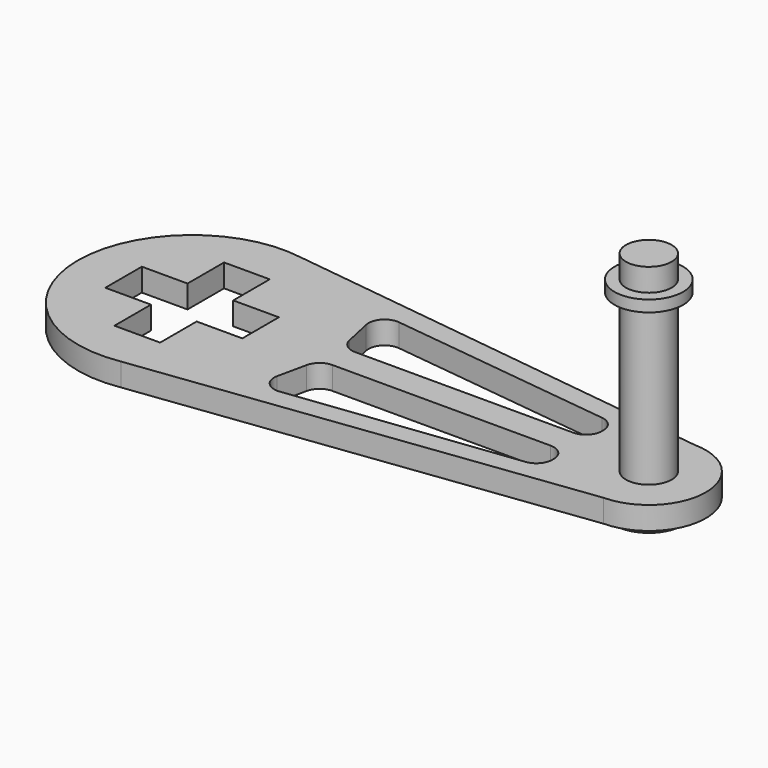
from build123d import *

# Parameters (mm, degrees)
F0_R     = 10
F1_DEPTH = 10
F2_R     = 10
F3_DEPTH = 100
F5_R     = 15
F5_R_2   = 10
F6_DEPTH = 5
F8_R     = 15
F8_R_2   = 10
F9_DEPTH = 5


with BuildPart() as f1:
    # F0 (on Top) → F1 (new body)
    with BuildSketch(Plane.XY):
        with BuildLine():
            ThreePointArc((8.2239713528, -49.3190256918), (38.1523168866, -32.3171891751), (50, 0))
            ThreePointArc((50, 0), (38.1523168866, 32.3171891751), (8.2239713528, 49.3190256918))
            ThreePointArc((8.2239713528, 49.3190256918), (-50, 0), (8.2239713528, -49.3190256918))
        make_face()
        Polygon((-10, 30), (0, 30), (10, 30), (10, 10), (30, 10), (30, 0), (30, -10), (10, -10), (10, -30), (0, -30), (-10, -30), (-10, -10), (-30, -10), (-30, 0), (-30, 10), (-10, 10), align=None, mode=Mode.SUBTRACT)
        with BuildLine():
            ThreePointArc((8.2239713528, 49.3190256918), (38.1523168866, 32.3171891751), (50, 0))
            ThreePointArc((50, 0), (38.1523168866, -32.3171891751), (8.2239713528, -49.3190256918))
            Line((8.2239713528, -49.3190256918), (200.2583432018, -24.9986651402))
            ThreePointArc((200.2583432018, -24.9986651402), (175, 0), (200.2583432018, 24.9986651402))
            Line((200.2583432018, 24.9986651402), (8.2239713528, 49.3190256918))
        make_face()
        with BuildLine():
            ThreePointArc((59.525263062, -11.6714409544), (61.973089813, -7.7092140579), (66.3651927926, -6.1598499306))
            Line((66.3651927926, -6.1598499306), (161.9411855936, -6.1598499306))
            ThreePointArc((161.9411855936, -6.1598499306), (166.8909330619, -8.2101024622), (168.9411855936, -13.1598499306))
            Line((168.9411855936, -13.1598499306), (168.9411855936, -13.984257154))
            ThreePointArc((168.9411855936, -13.984257154), (167.1788181219, -18.6283077027), (162.7791268797, -20.9339229302))
            Line((162.7791268797, -20.9339229302), (64.4436745019, -32.7905125979))
            ThreePointArc((64.4436745019, -32.7905125979), (58.428258667, -30.5518719008), (56.7658034852, -24.3524378455))
            Line((56.7658034852, -24.3524378455), (59.525263062, -11.6714409544))
        make_face(mode=Mode.SUBTRACT)
        with BuildLine():
            Line((59.525263062, 11.6714409544), (56.7658034852, 24.3524378455))
            ThreePointArc((56.7658034852, 24.3524378455), (58.428258667, 30.5518719008), (64.4436745019, 32.7905125979))
            Line((64.4436745019, 32.7905125979), (162.7791268797, 20.9339229302))
            ThreePointArc((162.7791268797, 20.9339229302), (167.1788181219, 18.6283077027), (168.9411855936, 13.984257154))
            Line((168.9411855936, 13.984257154), (168.9411855936, 13.1598499306))
            ThreePointArc((168.9411855936, 13.1598499306), (166.8909330619, 8.2101024622), (161.9411855936, 6.1598499306))
            Line((161.9411855936, 6.1598499306), (66.3651927926, 6.1598499306))
            ThreePointArc((66.3651927926, 6.1598499306), (61.973089813, 7.7092140579), (59.525263062, 11.6714409544))
        make_face(mode=Mode.SUBTRACT)
        with BuildLine():
            ThreePointArc((225, 0), (217.7687728902, 17.5860942218), (200.2583432018, 24.9986651402))
            ThreePointArc((200.2583432018, 24.9986651402), (175, 0), (200.2583432018, -24.9986651402))
            ThreePointArc((200.2583432018, -24.9986651402), (217.7687728902, -17.5860942218), (225, 0))
        make_face()
        with Locations((200, 0)):
            Circle(F0_R, mode=Mode.SUBTRACT)
    extrude(amount=F1_DEPTH)


with BuildPart() as f3:
    # F2 (on face) → F3 (new body)
    with BuildSketch(Plane.XY.offset(10)):
        with Locations((200, 0)):
            Circle(F2_R)
    extrude(amount=F3_DEPTH)


with BuildPart() as f3_1:
    # F4: moved
    add(f3.part.moved(Location((0, 0, -16))))

    # F5 (on face) → F6 (join)
    with BuildSketch(Plane(origin=(0, 0, -6), x_dir=(1, 0, 0), z_dir=(0, 0, -1))):
        with Locations((200, 0)):
            Circle(F5_R)
        with Locations((200, 0)):
            Circle(F5_R_2, mode=Mode.SUBTRACT)
    extrude(amount=-F6_DEPTH)

    # F8 (on offset) → F9 (join)
    with BuildSketch(Plane.XY.offset(84)):
        with Locations((200, 0)):
            Circle(F8_R)
        with Locations((200, 0)):
            Circle(F8_R_2, mode=Mode.SUBTRACT)
    extrude(amount=-F9_DEPTH)


solid = Compound([f1.part, f3_1.part])
